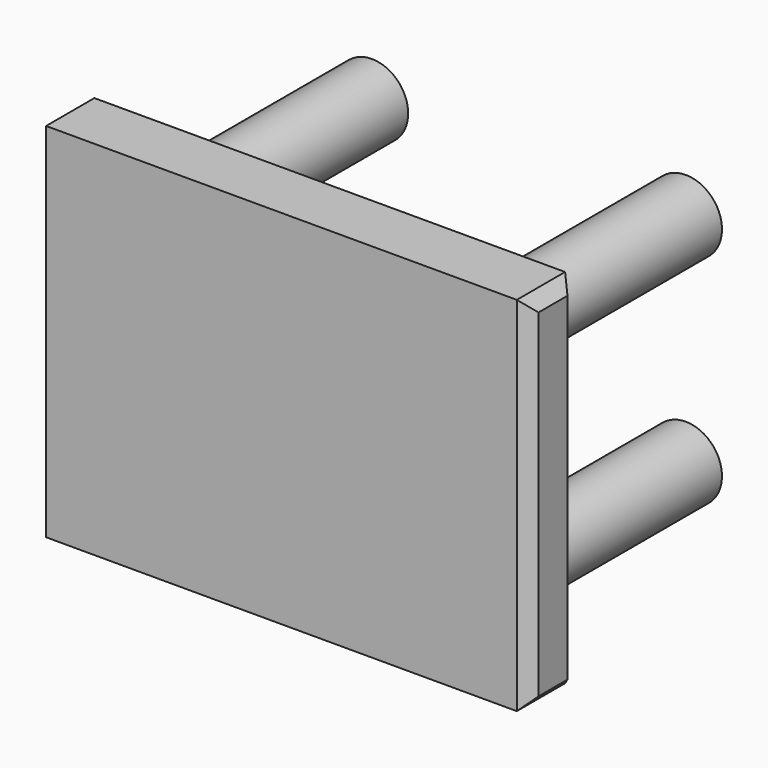
from build123d import *

# Parameters (mm, degrees)
F0_W     = 80
F0_H     = 60
F1_DEPTH = 10
F2_R     = 6
F3_DEPTH = 40
F4_SIZE  = 2


with BuildPart() as f1:
    # F0 (on Front) → F1 (new body)
    with BuildSketch(Plane.XZ):
        Rectangle(F0_W, F0_H)
    extrude(amount=F1_DEPTH)

    # F2 (on face) → F3 (join)
    with BuildSketch(Plane(origin=(0, 0, 0), x_dir=(-1, 0, 0), z_dir=(0, 1, 0))):
        with Locations((26, 18)):
            Circle(F2_R)
        with Locations((26, -18)):
            Circle(F2_R)
        with Locations((-26, -18)):
            Circle(F2_R)
        with Locations((-26, 18)):
            Circle(F2_R)
    extrude(amount=F3_DEPTH)

    # F4
    f4_edges = [f1.edges().sort_by_distance(p)[0] for p in [
        (40, -5, -30),
        (40, -5, 30),
        (40, 0, 0),
        (40, -10, 0),
    ]]
    chamfer(f4_edges, length=F4_SIZE)


solid = f1.part
